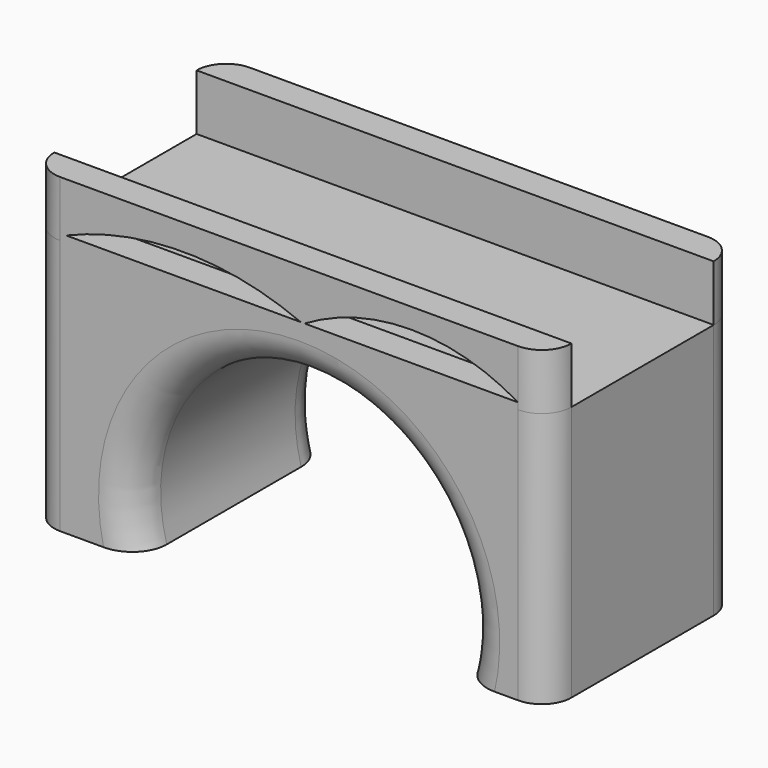
from build123d import *

# Parameters (mm, degrees)
F0_W      = 140.1769816875
F0_H      = 53.487598896
F13_DEPTH = 131.8847630173
F1_DEPTH  = 69.7684045881
F2_DEPTH  = 56.6403288394
F14_DEPTH = 101.1081095785
F15_DEPTH = 68.6891395599
F4_R      = 17.78
F5_R      = 15.24
F6_DEPTH  = 28.8777854294
F10_DEPTH = 25.4
F12_DEPTH = 25.4


with BuildPart() as f13:
    # F0 (on Top) → F13 (new body)
    with BuildSketch(Plane.XY):
        Rectangle(F0_W, F0_H)
    extrude(amount=F13_DEPTH)

    # F1 (add): a face of the model
    f1_faces = [f13.faces().sort_by_distance(p)[0] for p in [
        (-70.0884908438, 0, 65.9423815086),
    ]]
    extrude(f1_faces, amount=F1_DEPTH)

    # F2 (add): a face of the model
    f2_faces = [f13.faces().sort_by_distance(p)[0] for p in [
        (70.0884908438, 0, 65.9423815086),
    ]]
    extrude(f2_faces, amount=F2_DEPTH)

    # F3 (on face) → F14 (cut)
    with BuildSketch(Plane.XZ.offset(26.743799448)):
        with BuildLine():
            Line((-83.9332714677, 0), (81.0228064656, 0))
            ThreePointArc((81.0228064656, 0), (-1.455232501, 108.6675575463), (-83.9332714677, 0))
        make_face()
    extrude(amount=-F14_DEPTH, mode=Mode.SUBTRACT)

    # F15 (add): a face of the model
    f15_faces = [f13.faces().sort_by_distance(p)[0] for p in [
        (-111.8950834498, -26.743799448, 2.9742483793),
    ]]
    extrude(f15_faces, amount=F15_DEPTH)

    # F4
    f4_edges = [f13.edges().sort_by_distance(p)[0] for p in [
        (-1.455233, 26.743799, 108.667558),
        (-1.455233, -95.432939, 108.667558),
    ]]
    fillet(f4_edges, radius=F4_R)

    # F5
    f5_edges = [f13.edges().sort_by_distance(p)[0] for p in [
        (126.72882, -95.432939, 65.942382),
        (126.72882, 26.743799, 65.942382),
        (-139.856895, -95.432939, 65.942382),
        (-139.856895, 26.743799, 65.942382),
    ]]
    fillet(f5_edges, radius=F5_R)

    # F16 (on face) → F6 (join)
    with BuildSketch(Plane.XY.offset(131.8847630173)):
        with BuildLine():
            ThreePointArc((111.4888196832, -95.4329390079), (122.2651270285, -90.9692463532), (126.7288196832, -80.1929390079))
            Line((126.7288196832, -80.1929390079), (-139.8568954319, -80.1929390079))
            ThreePointArc((-139.8568954319, -80.1929390079), (-135.3932027772, -90.9692463532), (-124.6168954319, -95.4329390079))
            Line((-124.6168954319, -95.4329390079), (111.4888196832, -95.4329390079))
        make_face()
        with BuildLine():
            Line((-139.8568954319, 11.503799448), (126.7288196832, 11.503799448))
            ThreePointArc((126.7288196832, 11.503799448), (122.2651270285, 22.2801067933), (111.4888196832, 26.743799448))
            Line((111.4888196832, 26.743799448), (-124.6168954319, 26.743799448))
            ThreePointArc((-124.6168954319, 26.743799448), (-135.3932027772, 22.2801067933), (-139.8568954319, 11.503799448))
        make_face()
    extrude(amount=F6_DEPTH)

    # F9 (on face) → F10 (cut)
    with BuildSketch(Plane.XZ.offset(95.4329390079)):
        with BuildLine():
            Line((-39.3435060978, 135.2504938841), (-0.6112582661, 135.2504938841))
            ThreePointArc((-0.6112582661, 135.2504938841), (-61.0826207458, 147.45574623), (-121.5539832255, 135.2504938841))
            Line((-121.5539832255, 135.2504938841), (-39.3435060978, 135.2504938841))
        make_face()
    extrude(amount=-F10_DEPTH, mode=Mode.SUBTRACT)

    # F11 (on face) → F12 (cut)
    with BuildSketch(Plane.XZ.offset(95.4329390079)):
        with BuildLine():
            Line((9.9441353232, 135.2504938841), (111.4393852922, 135.2504938841))
            ThreePointArc((111.4393852922, 135.2504938841), (56.4007480003, 150.371931024), (1.3621107084, 135.2504938841))
            Line((1.3621107084, 135.2504938841), (9.9441353232, 135.2504938841))
        make_face()
    extrude(amount=-F12_DEPTH, mode=Mode.SUBTRACT)


solid = f13.part
